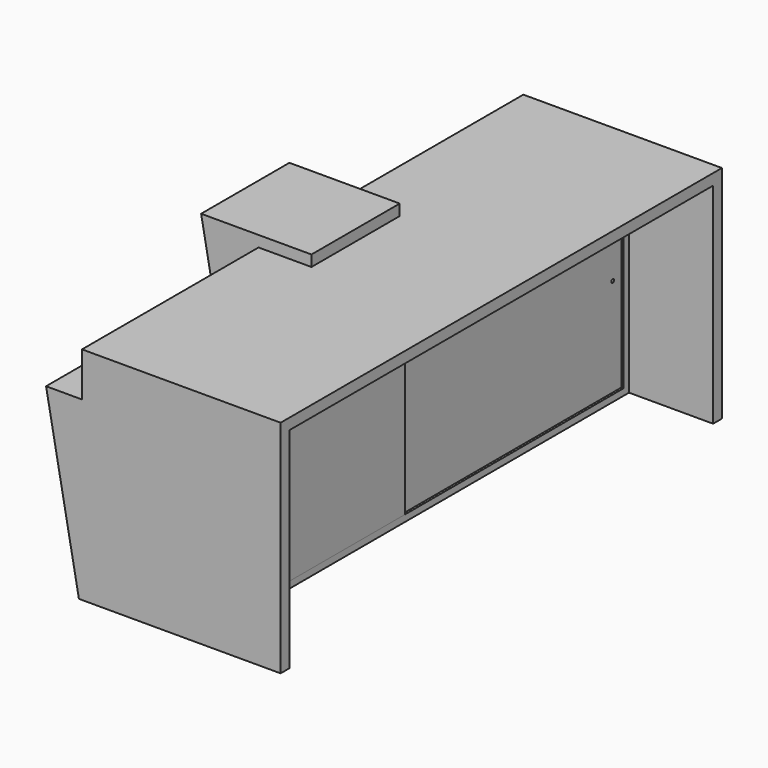
from build123d import *

# Parameters (mm, degrees)
F2_W           = 1100
F2_H           = 2500
F0_W           = 914
F0_H           = 2500
F4_W           = 2400
F4_H           = 950
F5_DEPTH       = 381
F6_W           = 2340
F6_H           = 890
F7_DEPTH       = 400
F9_DEPTH       = 890
F10_R          = 7.5
F11_DEPTH      = 50
F11_DEPTH_BACK = 60
F12_W          = 200
F12_H          = 200
F13_DEPTH      = 1250.0010001
F13_DEPTH_BACK = 1250.0010001
F15_DEPTH      = 250


with BuildPart() as f3:
    # F2 (on offset) → F3 section 0
    with BuildSketch(Plane.XY.offset(1000)):
        with Locations((-93, 0)):
            Rectangle(F2_W, F2_H)
    # F0 (on Top) → F3 section 1
    with BuildSketch(Plane.XY):
        Rectangle(F0_W, F0_H)
    loft()

    # F4 (on face) → F5 (cut)
    with BuildSketch(Plane.YZ.offset(457)):
        with Locations((0, 475)):
            Rectangle(F4_W, F4_H)
    extrude(amount=-F5_DEPTH, mode=Mode.SUBTRACT)

    # F6 (on face) → F7 (cut)
    with BuildSketch(Plane.YZ.offset(76)):
        with Locations((0, 475)):
            Rectangle(F6_W, F6_H)
    extrude(amount=-F7_DEPTH, mode=Mode.SUBTRACT)

    # F12 (on Front) → F13 (cut, two sides)
    with BuildSketch(Plane.XZ) as f13_sk:
        with Locations((-543, 900)):
            Rectangle(F12_W, F12_H)
    extrude(amount=-F13_DEPTH, mode=Mode.SUBTRACT)
    extrude(f13_sk.sketch, amount=F13_DEPTH_BACK, mode=Mode.SUBTRACT)

    # F14 (on Front) → F15 (join, symmetric)
    with BuildSketch(Plane.XZ):
        Polygon((-203.1575461461, 952.674343131), (-203.1575461461, 1050), (-703.1575461461, 1050), (-611.7256869163, 558.430864356), (-384.936348669, 558.430864356), (-384.936348669, 952.674343131), align=None)
    extrude(amount=F15_DEPTH, both=True)


with BuildPart() as f9:
    # F8 (on face) → F9 (new body, through all)
    with BuildSketch(Plane.XY.offset(30)):
        Polygon((66, -1170), (76, -1170), (76, -70), (66, -70), (66, -330), align=None)
        Polygon((56, -330), (66, -330), (66, -70), (66, 1170), (56, 1170), align=None)
    extrude(amount=F9_DEPTH)

    # F10 (on face) → F11 (cut, two sides)
    with BuildSketch(Plane.YZ.offset(76)) as f11_sk:
        with Locations((-1120, 475)):
            Circle(F10_R)
        with Locations((1120, 475)):
            Circle(F10_R)
    extrude(amount=-F11_DEPTH, mode=Mode.SUBTRACT)
    extrude(f11_sk.sketch, amount=F11_DEPTH_BACK, mode=Mode.SUBTRACT)


solid = Compound([f3.part, f9.part])
